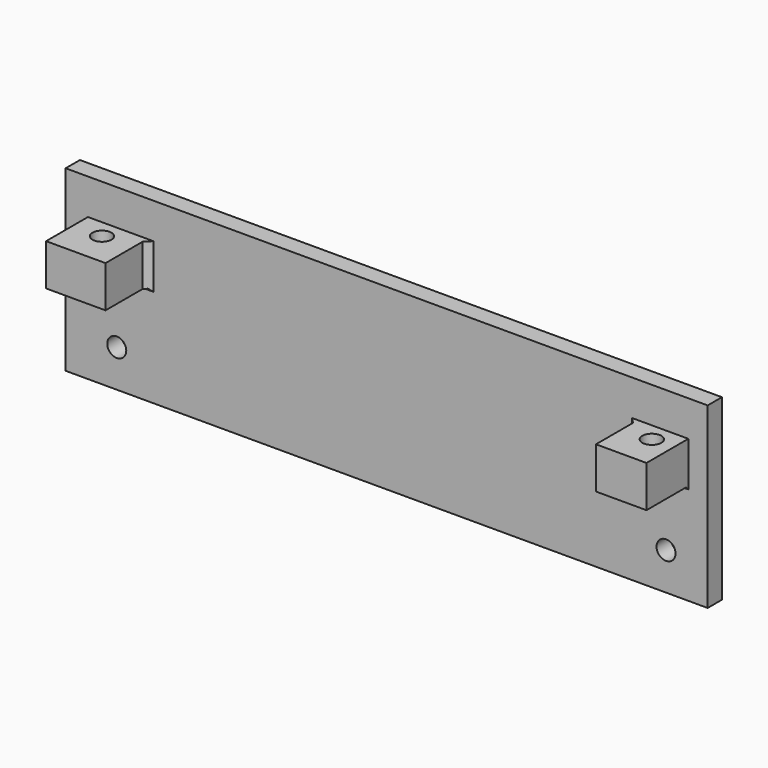
from build123d import *

# Parameters (mm, degrees)
CYLINDER019_R          = 1.6
CYLINDER019_DEPTH      = 10
PRISM002_DEPTH         = 3
BOX022_W               = 10
BOX022_H               = 11
BOX022_DEPTH           = 7
CYLINDER020_R          = 1.6
CYLINDER020_DEPTH      = 10
PRISM003_DEPTH         = 3
BOX023_W               = 8.5
BOX023_H               = 11
BOX023_DEPTH           = 7
CYLINDER017_R          = 1.6
CYLINDER017_DEPTH      = 10
CYLINDER017_ROLL_ANGLE = -90
CYLINDER015_R          = 1.6
CYLINDER015_DEPTH      = 10
CYLINDER015_ROLL_ANGLE = -90
BOX005_W               = 108
BOX005_H               = 3
BOX005_DEPTH           = 30
CHAMFER001_SIZE        = 1
CHAMFER002_SIZE        = 0.5
CHAMFER003_SIZE        = 0.5


with BuildPart() as cylinder019:
    # Cylinder019 → Cylinder019 (new body)
    with BuildSketch(Plane(origin=(3.6, 5.69, -5), x_dir=(1, 0, 0), z_dir=(0, 0, 1))):
        Circle(CYLINDER019_R)
    extrude(amount=CYLINDER019_DEPTH)


with BuildPart() as prism002:
    # Prism002 → Prism002 (new body)
    with BuildSketch(Plane(origin=(3.6, 5.69, -7), x_dir=(1, 0, 0), z_dir=(0, 0, 1))):
        Polygon((3, 0), (1.5, 2.598076), (-1.5, 2.598076), (-3, 0), (-1.5, -2.598076), (1.5, -2.598076), align=None)
    extrude(amount=PRISM002_DEPTH)


with BuildPart() as cut010:
    # Box022 → Box022 (new body)
    with BuildSketch(Plane(origin=(-1.25, 0, -7), x_dir=(1, 0, 0), z_dir=(0, 0, 1))):
        with Locations((5, 5.5)):
            Rectangle(BOX022_W, BOX022_H)
    extrude(amount=BOX022_DEPTH)

    # Cut009: cut Prism002
    add(prism002.part, mode=Mode.SUBTRACT)


with BuildPart() as cut010_1:
    # Cut009 placement: moved
    add(cut010.part.moved(Location((0, 0, -1))))

    # Cut010: cut Cylinder019
    add(cylinder019.part, mode=Mode.SUBTRACT)


with BuildPart() as cut010_2:
    # Cut010 placement: moved
    add(cut010_1.part.moved(Location((0, 76.2, 0))))


with BuildPart() as cylinder020:
    # Cylinder020 → Cylinder020 (new body)
    with BuildSketch(Plane(origin=(3.6, 5.69, -5), x_dir=(1, 0, 0), z_dir=(0, 0, 1))):
        Circle(CYLINDER020_R)
    extrude(amount=CYLINDER020_DEPTH)


with BuildPart() as prism003:
    # Prism003 → Prism003 (new body)
    with BuildSketch(Plane(origin=(3.6, 5.69, -7), x_dir=(1, 0, 0), z_dir=(0, 0, 1))):
        Polygon((3, 0), (1.5, 2.598076), (-1.5, 2.598076), (-3, 0), (-1.5, -2.598076), (1.5, -2.598076), align=None)
    extrude(amount=PRISM003_DEPTH)


with BuildPart() as cut012:
    # Box023 → Box023 (new body)
    with BuildSketch(Plane(origin=(-1.25, 0, -7), x_dir=(1, 0, 0), z_dir=(0, 0, 1))):
        with Locations((4.25, 5.5)):
            Rectangle(BOX023_W, BOX023_H)
    extrude(amount=BOX023_DEPTH)

    # Cut011: cut Prism003
    add(prism003.part, mode=Mode.SUBTRACT)


with BuildPart() as cut012_1:
    # Cut011 placement: moved
    add(cut012.part.moved(Location((0, 0, -1))))

    # Cut012: cut Cylinder020
    add(cylinder020.part, mode=Mode.SUBTRACT)


with BuildPart() as cut012_2:
    # Cut012 placement: moved
    add(cut012_1.part.moved(Location((92.5, 76.2, 0))))


with BuildPart() as cylinder017:
    # Cylinder017 → Cylinder017 (new body)
    with BuildSketch(Plane.XY):
        Circle(CYLINDER017_R)
    extrude(amount=CYLINDER017_DEPTH)


with BuildPart() as cylinder017_1:
    # Cylinder017 roll: moved
    add(cylinder017.part.rotate(Axis((0, 0, 0), (1, 0, 0)), CYLINDER017_ROLL_ANGLE))


with BuildPart() as cylinder017_2:
    # Cylinder017 placement: moved
    add(cylinder017_1.part.moved(Location((96, 82, -18.7))))


with BuildPart() as left_holes:
    # Cylinder015 → Cylinder015 (new body)
    with BuildSketch(Plane.XY):
        Circle(CYLINDER015_R)
    extrude(amount=CYLINDER015_DEPTH)


with BuildPart() as left_holes_1:
    # Cylinder015 roll: moved
    add(left_holes.part.rotate(Axis((0, 0, 0), (1, 0, 0)), CYLINDER015_ROLL_ANGLE))


with BuildPart() as left_holes_2:
    # Cylinder015 placement: moved
    add(left_holes_1.part.moved(Location((3.6, 82, -18.7))))

    # Fusion006: union Cylinder017
    add(cylinder017_2.part)


with BuildPart() as left_side_final001:
    # Box005 → Box005 (new body)
    with BuildSketch(Plane(origin=(-5, 85, -25), x_dir=(1, 0, 0), z_dir=(0, 0, 1))):
        with Locations((54, 1.5)):
            Rectangle(BOX005_W, BOX005_H)
    extrude(amount=BOX005_DEPTH)

    # Cut026: cut left holes
    add(left_holes_2.part, mode=Mode.SUBTRACT)

    # Fusion012: union Cut010, Cut012
    add(cut010_2.part)
    add(cut012_2.part)

    # Chamfer001
    chamfer001_edges = [left_side_final001.edges().sort_by_distance(p)[0] for p in [
        (91.25, 85, -4.5),
        (8.75, 85, -4.5),
    ]]
    chamfer(chamfer001_edges, length=CHAMFER001_SIZE)

    # Chamfer002
    chamfer002_edges = [left_side_final001.edges().sort_by_distance(p)[0] for p in [
        (95.5, 85, -8),
    ]]
    chamfer(chamfer002_edges, length=CHAMFER002_SIZE)

    # Chamfer003
    chamfer003_edges = [left_side_final001.edges().sort_by_distance(p)[0] for p in [
        (3.75, 85, -8),
    ]]
    chamfer(chamfer003_edges, length=CHAMFER003_SIZE)


solid = left_side_final001.part
